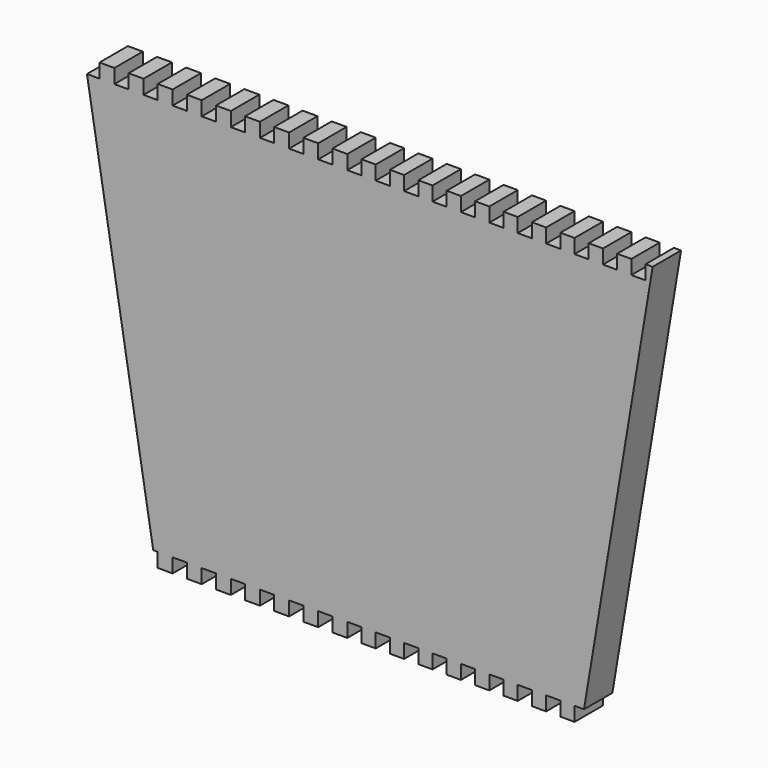
from build123d import *

# Parameters (mm, degrees)
F1_DEPTH = 25


with BuildPart() as f1:
    # F0 (on Front) → F1 (new body)
    with BuildSketch(Plane.XZ):
        Polygon((151.666667, -140), (200, 150), (195, 150), (195, 140), (185, 140), (185, 150), (175, 150), (175, 140), (165, 140), (165, 150), (155, 150), (155, 140), (145, 140), (145, 150), (135, 150), (135, 140), (125, 140), (125, 150), (115, 150), (115, 140), (105, 140), (105, 150), (95, 150), (95, 140), (85, 140), (85, 150), (75, 150), (75, 140), (65, 140), (65, 150), (55, 150), (55, 140), (45, 140), (45, 150), (35, 150), (35, 140), (25, 140), (25, 150), (15, 150), (15, 140), (5, 140), (5, 150), (0, 150), (-5, 150), (-5, 140), (-15, 140), (-15, 150), (-25.5, 150), (-25.5, 140), (-35.5, 140), (-35.5, 150), (-46, 150), (-46, 140), (-56, 140), (-56, 150), (-66.5, 150), (-66.5, 140), (-76.5, 140), (-76.5, 150), (-87, 150), (-87, 140), (-97, 140), (-97, 150), (-107.5, 150), (-107.5, 140), (-117.5, 140), (-117.5, 150), (-128, 150), (-128, 140), (-138, 140), (-138, 150), (-148.5, 150), (-148.5, 140), (-158.5, 140), (-158.5, 150), (-169, 150), (-169, 140), (-179, 140), (-179, 150), (-189.5, 150), (-189.5, 140), (-198.333333, 140), (-151.666667, -140), (-148.5, -140), (-148.5, -150), (-138, -150), (-138, -140), (-128, -140), (-128, -150), (-117.5, -150), (-117.5, -140), (-107.5, -140), (-107.5, -150), (-97, -150), (-97, -140), (-87, -140), (-87, -150), (-76.5, -150), (-76.5, -140), (-66.5, -140), (-66.5, -150), (-56, -150), (-56, -140), (-46, -140), (-46, -150), (-35.5, -150), (-35.5, -140), (-25.5, -140), (-25.5, -150), (-15, -150), (-15, -140), (-5, -140), (-5, -150), (0, -150), (5, -150), (5, -140), (15, -140), (15, -150), (25, -150), (25, -140), (35, -140), (35, -150), (45, -150), (45, -140), (55, -140), (55, -150), (65, -150), (65, -140), (75, -140), (75, -150), (85, -150), (85, -140), (95, -140), (95, -150), (105, -150), (105, -140), (115, -140), (115, -150), (125, -150), (125, -140), (135, -140), (135, -150), (145, -150), (145, -140), align=None)
    extrude(amount=F1_DEPTH)


solid = f1.part
